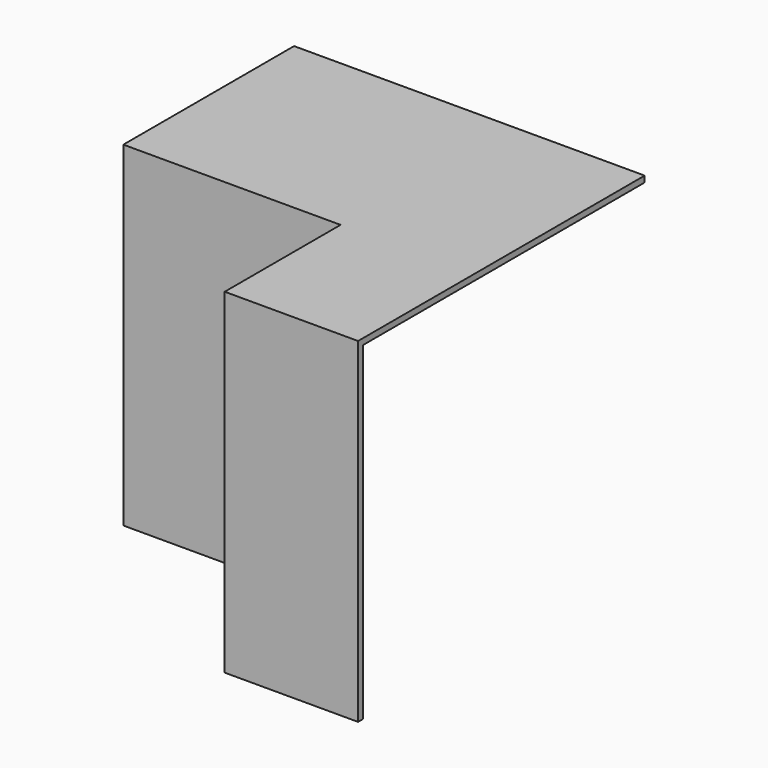
from build123d import *

# Parameters (mm, degrees)
F1_DEPTH = 880
F2_T     = -16


with BuildPart() as f1:
    # F0 (on Top) → F1 (new body)
    with BuildSketch(Plane.XY):
        Polygon((-570, 0), (0, 0), (0, -380), (350, -380), (350, 560), (-570, 560), align=None)
    extrude(amount=F1_DEPTH)

    # F2
    f2_openings = [f1.faces().sort_by_distance(p)[0] for p in [
        (-110, 560, 440),
        (350, 90, 440),
        (-51.522678, 183.563715, 0),
    ]]
    offset(amount=F2_T, openings=f2_openings, kind=Kind.INTERSECTION)


solid = f1.part
